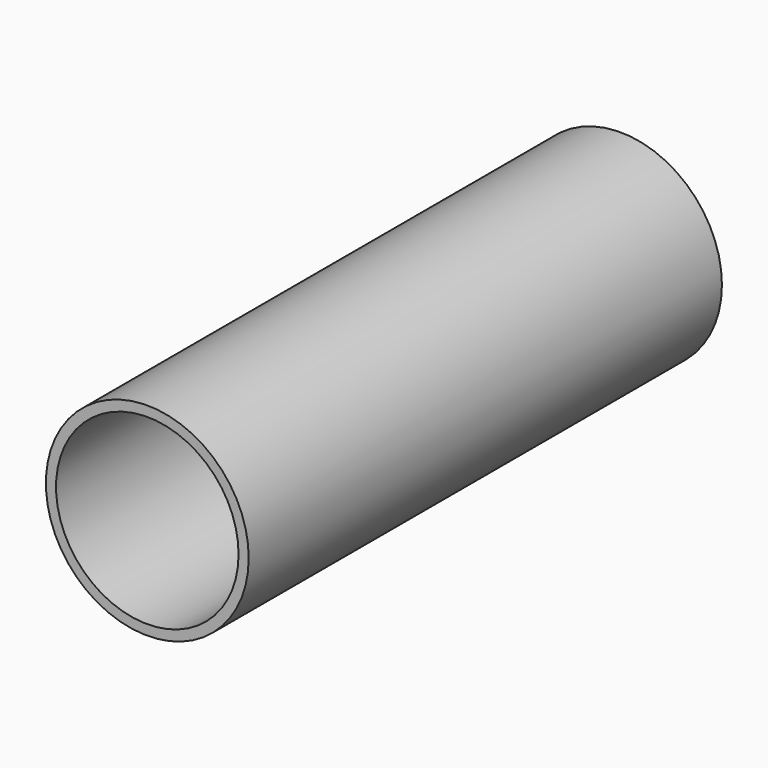
from build123d import *

# Parameters (mm, degrees)
F0_R     = 30
F0_R_2   = 27
F1_DEPTH = 25
F2_DEPTH = 175


with BuildPart() as f1:
    # F0 (on Front) → F1 (new body)
    with BuildSketch(Plane.XZ):
        Circle(F0_R)
        Circle(F0_R_2, mode=Mode.SUBTRACT)
    extrude(amount=F1_DEPTH)

    # F0 (on Front) → F2 (join)
    with BuildSketch(Plane.XZ):
        Circle(F0_R)
        Circle(F0_R_2, mode=Mode.SUBTRACT)
    extrude(amount=F2_DEPTH)


solid = f1.part
